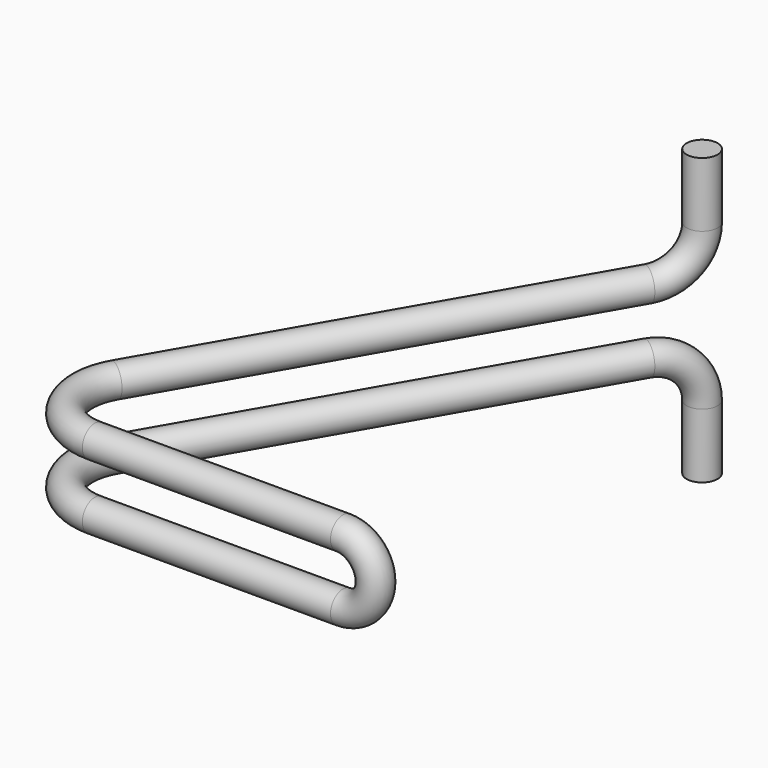
from build123d import *

# Parameters (mm, degrees)
F11_R = 0.79375


with BuildPart() as f12:
    # F12: sweep along a path in F9, F5, F3, F0, F9
    with BuildLine(Plane(origin=(-3.9926971676, 2.3051847845, 0), x_dir=(-0.5, -0.8660254038, 0), z_dir=(-0.8660254038, 0.5, 0))) as f12_path:
        Line((-27.8585981117, -8.9789), (-27.8585981117, -5.6769))
        ThreePointArc((-27.8585981117, -5.6769), (-27.174165238, -4.0245328737), (-25.5217981117, -3.3401))
    with BuildLine(Plane.XY.offset(-3.3401)) as f12_path_2:
        Line((8.7682018883, 24.4077102995), (-2.6617981117, 4.610369569))
        ThreePointArc((-2.6617981117, 4.610369569), (-2.6617981117, 1.5367898563), (0, 0))
        Line((0, 0), (12.7, 0))
    with BuildLine(Plane.XZ) as f12_path_3:
        ThreePointArc((12.7, -3.3401), (14.37005, -1.67005), (12.7, 0))
    with BuildLine(Plane.XY) as f12_path_4:
        Line((12.7, 0), (0, 0))
        ThreePointArc((0, 0), (-2.6617981117, 1.5367898563), (-2.6617981117, 4.610369569))
        Line((-2.6617981117, 4.610369569), (8.7682018883, 24.4077102995))
    with BuildLine(Plane(origin=(-3.9926971676, 2.3051847845, 0), x_dir=(-0.5, -0.8660254038, 0), z_dir=(-0.8660254038, 0.5, 0))) as f12_path_5:
        ThreePointArc((-25.5217981117, 0), (-27.174165238, 0.6844328737), (-27.8585981117, 2.3368))
        Line((-27.8585981117, 2.3368), (-27.8585981117, 5.6388))
    # F11 (on line) → F12 (sweep)
    with BuildSketch(Plane(origin=(0, 0, -8.9789), x_dir=(1, 0, 0), z_dir=(0, 0, -1))):
        with Locations((9.9366018883, -26.431438463)):
            Circle(F11_R)
    sweep(path=f12_path.line + f12_path_2.line + f12_path_3.line + f12_path_4.line + f12_path_5.line)


solid = f12.part
